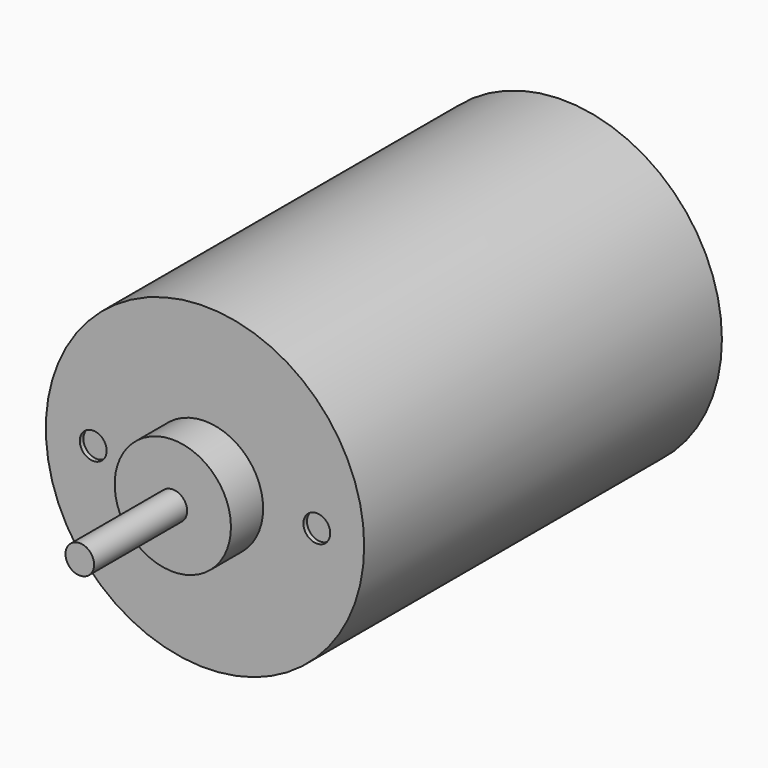
from build123d import *

# Parameters (mm, degrees)
F0_R     = 17.8
F1_DEPTH = 50
F2_R     = 6.5
F3_DEPTH = 4.5
F4_R     = 1.6
F5_DEPTH = 13
F6_R     = 1.5
F7_DEPTH = 0.5


with BuildPart() as f1:
    # F0 (on Front) → F1 (new body)
    with BuildSketch(Plane.XZ):
        Circle(F0_R)
    extrude(amount=F1_DEPTH)

    # F2 (on face) → F3 (join)
    with BuildSketch(Plane.XZ.offset(50)):
        Circle(F2_R)
    extrude(amount=F3_DEPTH)

    # F4 (on face) → F5 (join)
    with BuildSketch(Plane.XZ.offset(54.5)):
        Circle(F4_R)
    extrude(amount=F5_DEPTH)

    # F6 (on face) → F7 (cut)
    with BuildSketch(Plane.XZ.offset(50)):
        with Locations((-12.5, 0)):
            Circle(F6_R)
        with Locations((12.5, 0)):
            Circle(F6_R)
    extrude(amount=-F7_DEPTH, mode=Mode.SUBTRACT)


solid = f1.part
